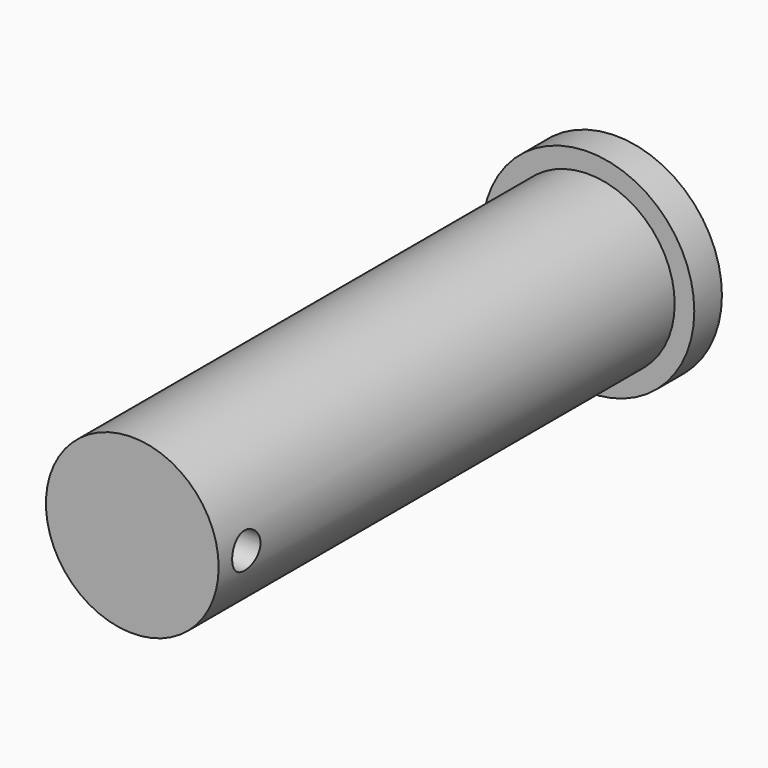
from build123d import *

# Parameters (mm, degrees)
F0_R     = 6.135
F1_DEPTH = 2
F2_R     = 5
F3_DEPTH = 33
F5_R     = 1.024989
F6_DEPTH = 11.136


with BuildPart() as f1:
    # F0 (on Front) → F1 (new body)
    with BuildSketch(Plane.XZ):
        Circle(F0_R)
    extrude(amount=F1_DEPTH)

    # F2 (on face) → F3 (join)
    with BuildSketch(Plane.XZ.offset(2)):
        Circle(F2_R)
    extrude(amount=F3_DEPTH)

    # F5 (on offset) → F6 (cut, through all)
    with BuildSketch(Plane.YZ.offset(5)):
        with Locations((-32.996107, 0)):
            Circle(F5_R)
    extrude(amount=-F6_DEPTH, mode=Mode.SUBTRACT)


solid = f1.part
